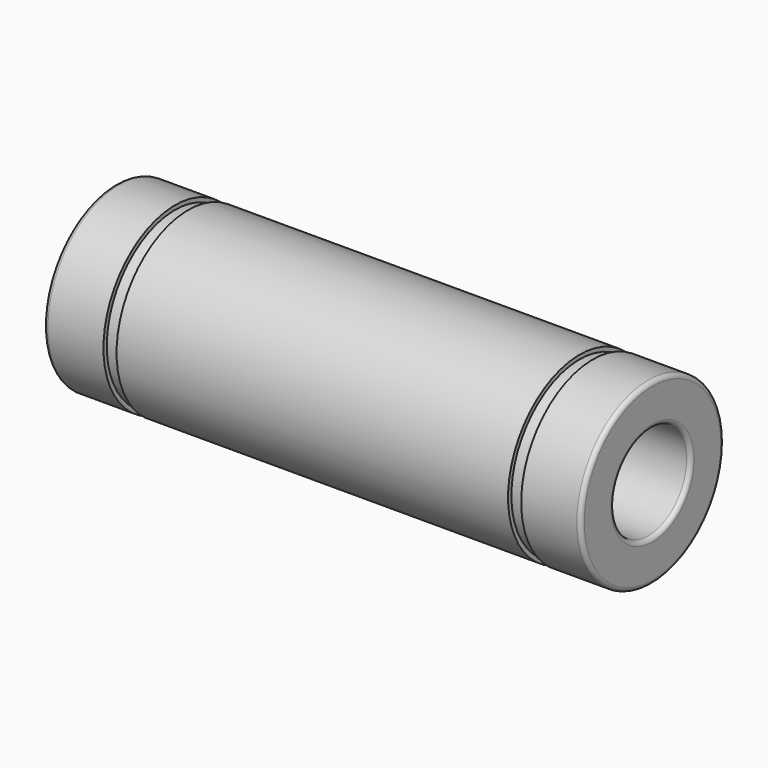
from build123d import *


with BuildPart() as f1:
    # F0 (on Top) → F1 (revolve)
    with BuildSketch(Plane.XY):
        with BuildLine():
            Line((-17.5, 7.5), (-22.15, 7.5))
            ThreePointArc((-22.15, 7.5), (-22.397487, 7.397487), (-22.5, 7.15))
            Line((-22.5, 7.15), (-22.5, 4.35))
            ThreePointArc((-22.5, 4.35), (-22.397487, 4.102513), (-22.15, 4))
            Line((-22.15, 4), (22.15, 4))
            ThreePointArc((22.15, 4), (22.397487, 4.102513), (22.5, 4.35))
            Line((22.5, 4.35), (22.5, 7.15))
            ThreePointArc((22.5, 7.15), (22.397487, 7.397487), (22.15, 7.5))
            Line((22.15, 7.5), (17.5, 7.5))
            Line((17.5, 7.5), (17.5, 7.15))
            Line((17.5, 7.15), (16.4, 7.15))
            Line((16.4, 7.15), (16.4, 7.5))
            Line((16.4, 7.5), (-16.4, 7.5))
            Line((-16.4, 7.5), (-16.4, 7.15))
            Line((-16.4, 7.15), (-17.5, 7.15))
            Line((-17.5, 7.15), (-17.5, 7.5))
        make_face()
        with BuildLine():
            Line((-17.5, 7.5), (-22.15, 7.5))
            ThreePointArc((-22.15, 7.5), (-22.397487, 7.397487), (-22.5, 7.15))
            Line((-22.5, 7.15), (-22.5, 4.35))
            ThreePointArc((-22.5, 4.35), (-22.397487, 4.102513), (-22.15, 4))
            Line((-22.15, 4), (22.15, 4))
            ThreePointArc((22.15, 4), (22.397487, 4.102513), (22.5, 4.35))
            Line((22.5, 4.35), (22.5, 7.15))
            ThreePointArc((22.5, 7.15), (22.397487, 7.397487), (22.15, 7.5))
            Line((22.15, 7.5), (17.5, 7.5))
            Line((17.5, 7.5), (17.5, 7.15))
            Line((17.5, 7.15), (16.4, 7.15))
            Line((16.4, 7.15), (16.4, 7.5))
            Line((16.4, 7.5), (-16.4, 7.5))
            Line((-16.4, 7.5), (-16.4, 7.15))
            Line((-16.4, 7.15), (-17.5, 7.15))
            Line((-17.5, 7.15), (-17.5, 7.5))
        make_face()
        with BuildLine():
            Line((-17.5, 7.5), (-22.15, 7.5))
            ThreePointArc((-22.15, 7.5), (-22.397487, 7.397487), (-22.5, 7.15))
            Line((-22.5, 7.15), (-22.5, 4.35))
            ThreePointArc((-22.5, 4.35), (-22.397487, 4.102513), (-22.15, 4))
            Line((-22.15, 4), (22.15, 4))
            ThreePointArc((22.15, 4), (22.397487, 4.102513), (22.5, 4.35))
            Line((22.5, 4.35), (22.5, 7.15))
            ThreePointArc((22.5, 7.15), (22.397487, 7.397487), (22.15, 7.5))
            Line((22.15, 7.5), (17.5, 7.5))
            Line((17.5, 7.5), (17.5, 7.15))
            Line((17.5, 7.15), (16.4, 7.15))
            Line((16.4, 7.15), (16.4, 7.5))
            Line((16.4, 7.5), (-16.4, 7.5))
            Line((-16.4, 7.5), (-16.4, 7.15))
            Line((-16.4, 7.15), (-17.5, 7.15))
            Line((-17.5, 7.15), (-17.5, 7.5))
        make_face()
        with BuildLine():
            Line((-17.5, 7.5), (-22.15, 7.5))
            ThreePointArc((-22.15, 7.5), (-22.397487, 7.397487), (-22.5, 7.15))
            Line((-22.5, 7.15), (-22.5, 4.35))
            ThreePointArc((-22.5, 4.35), (-22.397487, 4.102513), (-22.15, 4))
            Line((-22.15, 4), (22.15, 4))
            ThreePointArc((22.15, 4), (22.397487, 4.102513), (22.5, 4.35))
            Line((22.5, 4.35), (22.5, 7.15))
            ThreePointArc((22.5, 7.15), (22.397487, 7.397487), (22.15, 7.5))
            Line((22.15, 7.5), (17.5, 7.5))
            Line((17.5, 7.5), (17.5, 7.15))
            Line((17.5, 7.15), (16.4, 7.15))
            Line((16.4, 7.15), (16.4, 7.5))
            Line((16.4, 7.5), (-16.4, 7.5))
            Line((-16.4, 7.5), (-16.4, 7.15))
            Line((-16.4, 7.15), (-17.5, 7.15))
            Line((-17.5, 7.15), (-17.5, 7.5))
        make_face()
        with BuildLine():
            Line((-17.5, 7.5), (-22.15, 7.5))
            ThreePointArc((-22.15, 7.5), (-22.397487, 7.397487), (-22.5, 7.15))
            Line((-22.5, 7.15), (-22.5, 4.35))
            ThreePointArc((-22.5, 4.35), (-22.397487, 4.102513), (-22.15, 4))
            Line((-22.15, 4), (22.15, 4))
            ThreePointArc((22.15, 4), (22.397487, 4.102513), (22.5, 4.35))
            Line((22.5, 4.35), (22.5, 7.15))
            ThreePointArc((22.5, 7.15), (22.397487, 7.397487), (22.15, 7.5))
            Line((22.15, 7.5), (17.5, 7.5))
            Line((17.5, 7.5), (17.5, 7.15))
            Line((17.5, 7.15), (16.4, 7.15))
            Line((16.4, 7.15), (16.4, 7.5))
            Line((16.4, 7.5), (-16.4, 7.5))
            Line((-16.4, 7.5), (-16.4, 7.15))
            Line((-16.4, 7.15), (-17.5, 7.15))
            Line((-17.5, 7.15), (-17.5, 7.5))
        make_face()
    revolve(axis=Axis((0, 0, 0), (1, 0, 0)))


solid = f1.part
